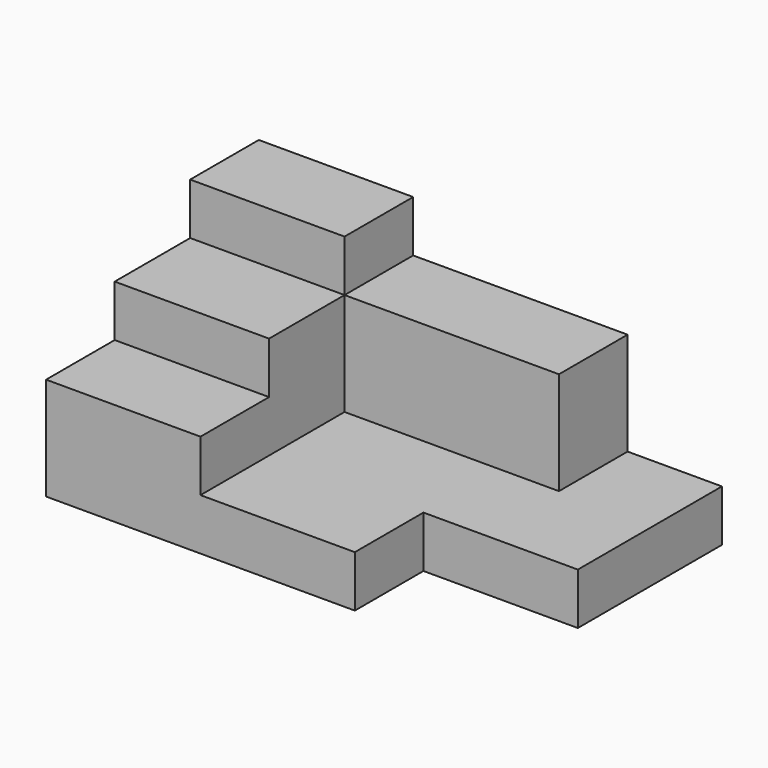
from build123d import *

# Parameters (mm, degrees)
F0_W     = 137.16
F0_H     = 60.96
F1_DEPTH = 78.74
F2_W     = 45.72
F2_H     = 25.4
F3_DEPTH = 60.961
F4_DEPTH = 45.72
F2_W_2   = 63.5
F5_DEPTH = 15.24
F2_H_2   = 27.94
F6_DEPTH = 15.24
F7_DEPTH = 30.48


with BuildPart() as f1:
    # F0 (on Front) → F1 (new body)
    with BuildSketch(Plane.XZ):
        with Locations((45.417035, -19.691394)):
            Rectangle(F0_W, F0_H)
    extrude(amount=F1_DEPTH)

    # F2 (on face) → F3 (cut, through all)
    with BuildSketch(Plane.XY.offset(10.788606)):
        with Locations((91.137035, -66.04)):
            Rectangle(F2_W, F2_H)
    extrude(amount=-F3_DEPTH, mode=Mode.SUBTRACT)

    # F2 (on face) → F4 (cut)
    with BuildSketch(Plane.XY.offset(10.788606)):
        Polygon((86.057035, -25.4), (22.557035, -25.4), (22.557035, -53.34), (22.557035, -78.74), (68.277035, -78.74), (68.277035, -53.34), (113.997035, -53.34), (113.997035, 0), (86.057035, 0), align=None)
    extrude(amount=-F4_DEPTH, mode=Mode.SUBTRACT)

    # F2 (on face) → F5 (cut)
    with BuildSketch(Plane.XY.offset(10.788606)):
        with Locations((54.307035, -12.7)):
            Rectangle(F2_W_2, F2_H)
    extrude(amount=-F5_DEPTH, mode=Mode.SUBTRACT)

    # F2 (on face) → F6 (cut)
    with BuildSketch(Plane.XY.offset(10.788606)):
        with Locations((-0.302965, -39.37)):
            Rectangle(F2_W, F2_H_2)
    extrude(amount=-F6_DEPTH, mode=Mode.SUBTRACT)

    # F2 (on face) → F7 (cut)
    with BuildSketch(Plane.XY.offset(10.788606)):
        with Locations((-0.302965, -66.04)):
            Rectangle(F2_W, F2_H)
    extrude(amount=-F7_DEPTH, mode=Mode.SUBTRACT)


solid = f1.part
